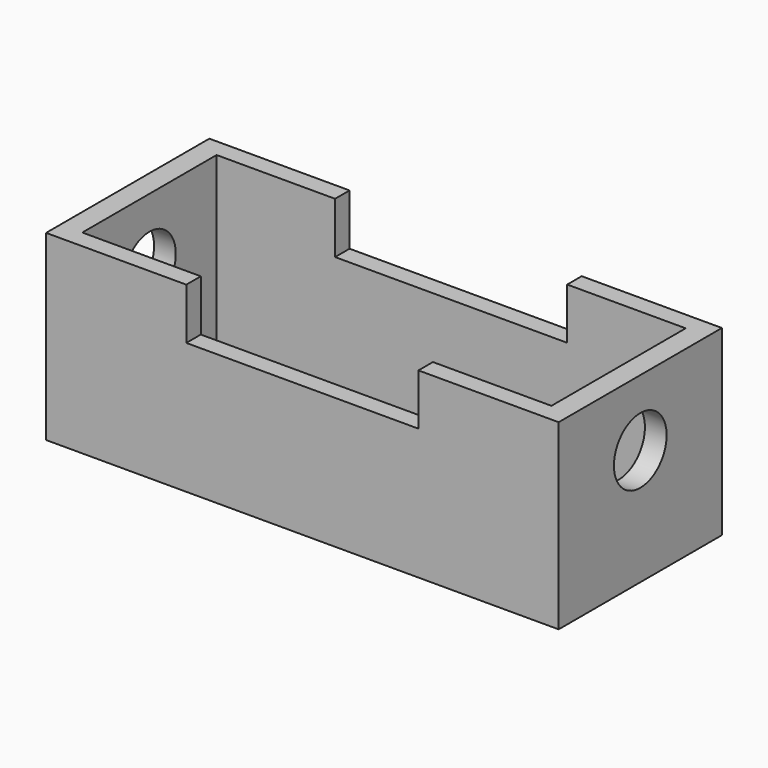
from build123d import *

# Parameters (mm, degrees)
F0_W     = 892.323136
F0_H     = 355.258762
F0_W_2   = 816.658438
F0_H_2   = 292.204798
F1_DEPTH = 317.5
F2_W     = 404.093236
F2_H     = 178.596606
F3_DEPTH = 355.259763
F4_R     = 57.353044
F5_DEPTH = 892.324136


with BuildPart() as f1:
    # F0 (on Top) → F1 (new body)
    with BuildSketch(Plane.XY):
        Rectangle(F0_W, F0_H)
        Rectangle(F0_W_2, F0_H_2, mode=Mode.SUBTRACT)
    extrude(amount=F1_DEPTH)

    # F2 (on face) → F3 (cut, through all)
    with BuildSketch(Plane.XZ.offset(177.629381)):
        with Locations((0, 317.5)):
            Rectangle(F2_W, F2_H)
    extrude(amount=-F3_DEPTH, mode=Mode.SUBTRACT)

    # F4 (on face) → F5 (cut, through all)
    with BuildSketch(Plane(origin=(-446.161568, 0, 0), x_dir=(0, -1, 0), z_dir=(-1, 0, 0))):
        with Locations((0, 202.074319)):
            Circle(F4_R)
    extrude(amount=-F5_DEPTH, mode=Mode.SUBTRACT)


solid = f1.part
